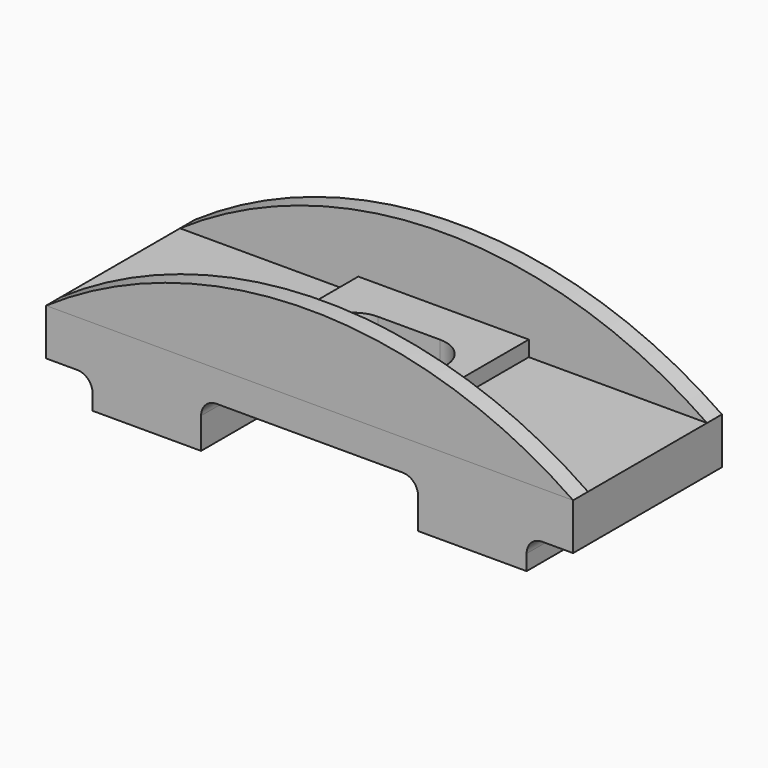
from build123d import *

# Parameters (mm, degrees)
F0_W      = 1700
F0_H      = 250
F1_DEPTH  = 600
F3_DEPTH  = 600.001
F4_W      = 550
F4_H      = 480
F5_DEPTH  = 50
F7_DEPTH  = 300.001
F9_DEPTH  = 60
F11_DEPTH = 60
F13_DEPTH = 600.001


with BuildPart() as f1:
    # F0 (on Front) → F1 (new body)
    with BuildSketch(Plane.XZ):
        Rectangle(F0_W, F0_H)
    extrude(amount=F1_DEPTH)

    # F2 (on face) → F3 (cut, through all)
    with BuildSketch(Plane.XZ.offset(600)):
        with BuildLine():
            Line((-850, -25), (-850, -125))
            Line((-850, -125), (-700, -125))
            Line((-700, -125), (-700, -75))
            ThreePointArc((-700, -75), (-714.644661, -39.644661), (-750, -25))
            Line((-750, -25), (-850, -25))
        make_face()
        with BuildLine():
            Line((700, -125), (850, -125))
            Line((850, -125), (850, -25))
            Line((850, -25), (750, -25))
            ThreePointArc((750, -25), (714.644661, -39.644661), (700, -75))
            Line((700, -75), (700, -125))
        make_face()
    extrude(amount=-F3_DEPTH, mode=Mode.SUBTRACT)

    # F4 (on face) → F5 (join)
    with BuildSketch(Plane.XY.offset(125)):
        with Locations((0, -300)):
            Rectangle(F4_W, F4_H)
    extrude(amount=F5_DEPTH)

    # F6 (on face) → F7 (cut, through all)
    with BuildSketch(Plane.XY.offset(175)):
        with BuildLine():
            ThreePointArc((200, -300), (170.710678, -229.289322), (100, -200))
            Line((100, -200), (-100, -200))
            ThreePointArc((-100, -200), (-170.710678, -229.289322), (-200, -300))
            ThreePointArc((-200, -300), (-170.710678, -370.710678), (-100, -400))
            Line((-100, -400), (100, -400))
            ThreePointArc((100, -400), (170.710678, -370.710678), (200, -300))
        make_face()
    extrude(amount=-F7_DEPTH, mode=Mode.SUBTRACT)

    # F12 (on face) → F13 (cut, through all)
    with BuildSketch(Plane.XZ.offset(600)):
        with BuildLine():
            ThreePointArc((350, -25), (335.355339, 10.355339), (300, 25))
            Line((300, 25), (-300, 25))
            ThreePointArc((-300, 25), (-335.355339, 10.355339), (-350, -25))
            Line((-350, -25), (-350, -275))
            Line((-350, -275), (350, -275))
            Line((350, -275), (350, -25))
        make_face()
    extrude(amount=-F13_DEPTH, mode=Mode.SUBTRACT)


with BuildPart() as f9:
    # F8 (on face) → F9 (new body)
    with BuildSketch(Plane.XZ.offset(600)):
        with BuildLine():
            Line((-850, 125), (850, 125))
            ThreePointArc((850, 125), (0, 389.079291), (-850, 125))
        make_face()
    extrude(amount=-F9_DEPTH)


with BuildPart() as f11:
    # F10 (on face) → F11 (new body)
    with BuildSketch(Plane(origin=(0, 0, 0), x_dir=(-1, 0, 0), z_dir=(0, 1, 0))):
        with BuildLine():
            Line((-850, 125), (850, 125))
            ThreePointArc((850, 125), (0, 389.079291), (-850, 125))
        make_face()
    extrude(amount=-F11_DEPTH)


solid = Compound([f1.part, f9.part, f11.part])
